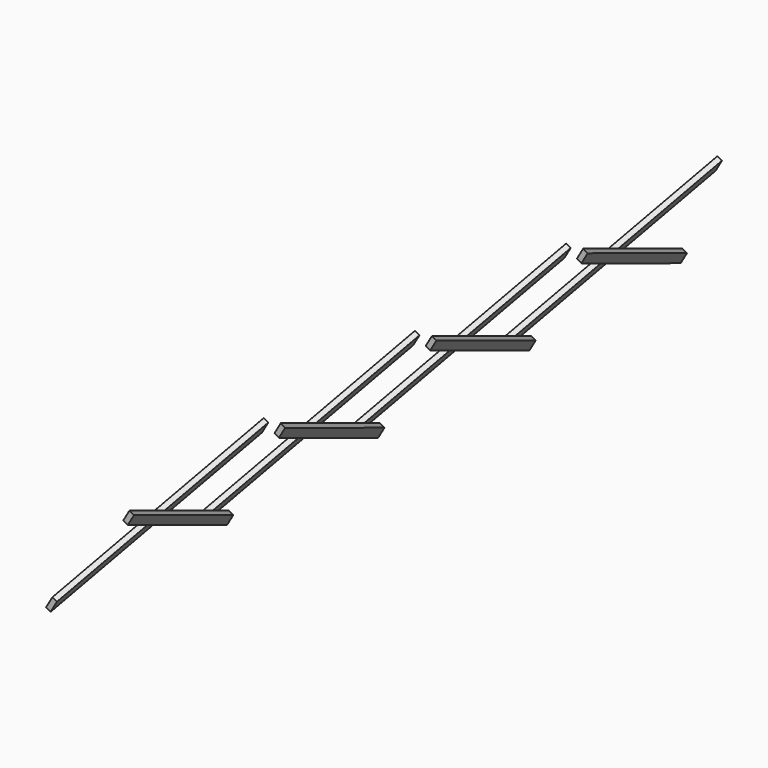
from build123d import *

# Parameters (mm, degrees)
PAD012_DEPTH             = 45
CLONE_PLACEMENT_ANGLE    = 180
ARRAY002_Y_COUNT         = 4
ARRAY002_Y_PITCH         = 1645
ARRAY002_PLACEMENT_ANGLE = 30


with BuildPart() as pad012:
    # Sketch014 → Pad012 (new body)
    with BuildSketch(Plane(origin=(-1488.52238464, 4.22287e-05, 258.47958374), x_dir=(0, 1, 0), z_dir=(1, 0, 0))):
        Polygon((0, 0), (0, 109.696551146), (1690, 1085.4185060758), (1690, 975.7219549298), align=None)
    extrude(amount=-PAD012_DEPTH)


with BuildPart() as obj1:
    # Clone base: copy of Pad012
    add(pad012.part)


with BuildPart() as obj1_1:
    # Clone placement: moved
    add(obj1.part.moved(Location((-2882.04238464, 0, 1726.63958374))).rotate(Axis((-2882.04238464, 0, 1726.63958374), (0, 1, 0)), CLONE_PLACEMENT_ANGLE))

    # Compound001: union Pad012
    add(pad012.part)


with BuildPart() as array002_copy1:
    # Array002 Y: instance of obj1
    add(obj1_1.part.moved(Location(Vector(0, 1, 0) * (1 * ARRAY002_Y_PITCH))))


with BuildPart() as array002_copy2:
    # Array002 Y: instance of obj1
    add(obj1_1.part.moved(Location(Vector(0, 1, 0) * (2 * ARRAY002_Y_PITCH))))


with BuildPart() as array002_copy3:
    # Array002 Y: instance of obj1
    add(obj1_1.part.moved(Location(Vector(0, 1, 0) * (3 * ARRAY002_Y_PITCH))))


with BuildPart() as obj1_2:
    # Array002 placement: moved
    add(obj1_1.part.moved(Location((288.9568159467, 969.9999577713, -881.5568828654))).rotate(Axis((288.9568159467, 969.9999577713, -881.5568828654), (0, 1, 0)), ARRAY002_PLACEMENT_ANGLE))


with BuildPart() as array002_copy1_1:
    # Array002 placement: moved
    add(array002_copy1.part.moved(Location((288.9568159467, 969.9999577713, -881.5568828654))).rotate(Axis((288.9568159467, 969.9999577713, -881.5568828654), (0, 1, 0)), ARRAY002_PLACEMENT_ANGLE))


with BuildPart() as array002_copy2_1:
    # Array002 placement: moved
    add(array002_copy2.part.moved(Location((288.9568159467, 969.9999577713, -881.5568828654))).rotate(Axis((288.9568159467, 969.9999577713, -881.5568828654), (0, 1, 0)), ARRAY002_PLACEMENT_ANGLE))


with BuildPart() as array002_copy3_1:
    # Array002 placement: moved
    add(array002_copy3.part.moved(Location((288.9568159467, 969.9999577713, -881.5568828654))).rotate(Axis((288.9568159467, 969.9999577713, -881.5568828654), (0, 1, 0)), ARRAY002_PLACEMENT_ANGLE))


solid = Compound([obj1_2.part, array002_copy1_1.part, array002_copy2_1.part, array002_copy3_1.part])
